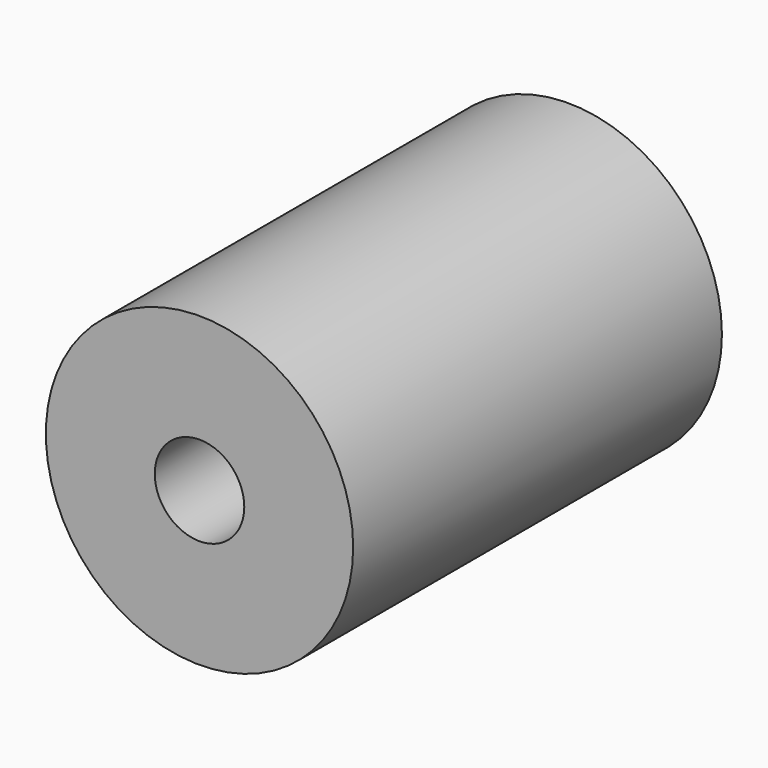
from build123d import *

# Parameters (mm, degrees)
F0_R     = 5
F0_R_2   = 1.5
F1_DEPTH = 15
F2_R     = 1.456685
F3_DEPTH = 10


with BuildPart() as f1:
    # F0 (on Front) → F1 (new body)
    with BuildSketch(Plane.XZ):
        Circle(F0_R)
        Circle(F0_R_2, mode=Mode.SUBTRACT)
        Circle(F0_R_2)
    extrude(amount=F1_DEPTH)

    # F2 (on face) → F3 (cut)
    with BuildSketch(Plane.XZ.offset(15)):
        Circle(F2_R)
    extrude(amount=-F3_DEPTH, mode=Mode.SUBTRACT)


solid = f1.part
